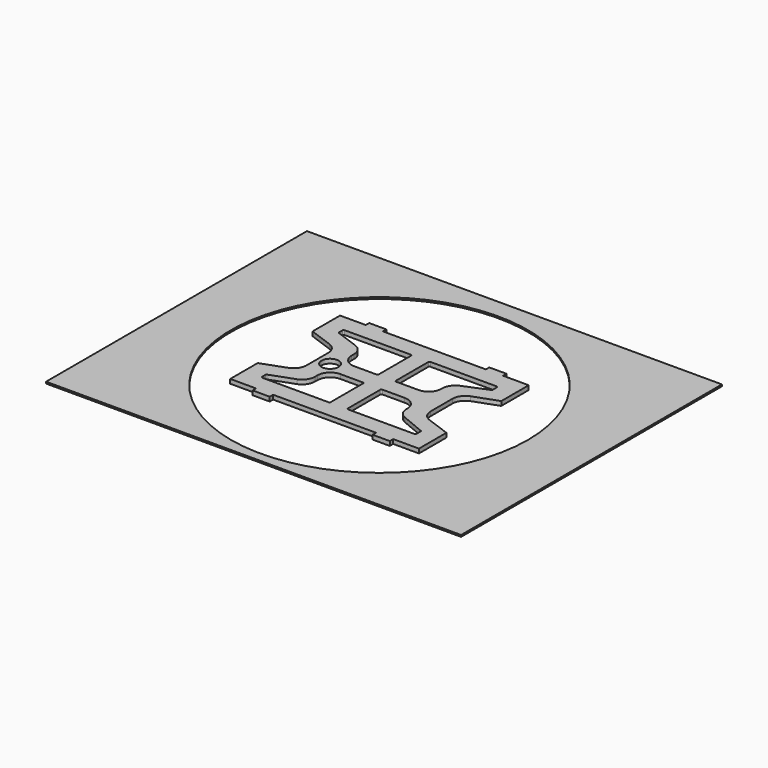
from build123d import *

# Parameters (mm, degrees)
F1_R     = 12.7
F1_W     = 25.4
F1_H     = 6.35
F2_DEPTH = 6.35
F0_W     = 614.423186
F0_H     = 482.76107
F0_R     = 220
F3_DEPTH = 2.54
F5_DEPTH = 25.4
F7_DEPTH = 25.4


with BuildPart() as f2:
    # F1 (on face) → F2 (new body)
    with BuildSketch(Plane.XY):
        Polygon((-97.758854, 101.6), (-135.858854, 101.6), (-135.858854, 51.370811), (-88.397744, 33.267927), (-88.347766, -33.487785), (-135.858854, -51.12635), (-135.858854, -101.6), (-97.758854, -101.6), (-72.358854, -101.6), (80.041146, -101.6), (105.441146, -101.6), (143.541146, -101.6), (143.541146, -51.020265), (95.782734, -33.633832), (95.831849, 33.409029), (143.541146, 50.852332), (143.541146, 101.6), (105.441146, 101.6), (80.041146, 101.6), (-72.358854, 101.6), align=None)
        with Locations((-69.322832, 0)):
            Circle(F1_R, mode=Mode.SUBTRACT)
        with Locations((-85.058854, 104.775)):
            Rectangle(F1_W, F1_H)
        Polygon((-88.397744, 33.267927), (-135.858854, 51.370811), (-135.858854, -51.12635), (-88.347766, -33.487785), align=None)
        with Locations((92.741146, 104.775)):
            Rectangle(F1_W, F1_H)
        with Locations((-85.058854, -104.775)):
            Rectangle(F1_W, F1_H)
        Polygon((143.541146, -51.020265), (143.541146, 50.852332), (95.831849, 33.409029), (95.782734, -33.633832), align=None)
        with Locations((92.741146, -104.775)):
            Rectangle(F1_W, F1_H)
    extrude(amount=F2_DEPTH)

    # F4 (on face) → F5 (cut)
    with BuildSketch(Plane.XY.offset(6.35)):
        with BuildLine():
            Line((143.541146, -50.8), (143.541146, 50.8))
            Line((143.541146, 50.8), (108.339277, 37.987568))
            ThreePointArc((108.339277, 37.987568), (99.249914, 31.013054), (95.804761, 20.086423))
            Line((95.804761, 20.086423), (95.804761, -20.086423))
            ThreePointArc((95.804761, -20.086423), (99.249914, -31.013054), (108.339277, -37.987568))
            Line((108.339277, -37.987568), (143.541146, -50.8))
        make_face()
        with BuildLine():
            Line((-100.656985, 37.987568), (-135.858854, 50.8))
            Line((-135.858854, 50.8), (-135.858854, -50.8))
            Line((-135.858854, -50.8), (-100.656985, -37.987568))
            ThreePointArc((-100.656985, -37.987568), (-91.567623, -31.013054), (-88.122469, -20.086423))
            Line((-88.122469, -20.086423), (-88.122469, 20.086423))
            ThreePointArc((-88.122469, 20.086423), (-91.567623, 31.013054), (-100.656985, 37.987568))
        make_face()
    extrude(amount=-F5_DEPTH, mode=Mode.SUBTRACT)

    # F6 (on face) → F7 (cut)
    with BuildSketch(Plane.XY.offset(6.35)):
        with BuildLine():
            Line((-75.256985, -54.142724), (-109.255424, -66.517143))
            ThreePointArc((-109.255424, -66.517143), (-110.128087, -67.186762), (-110.458854, -68.23582))
            Line((-110.458854, -68.23582), (-110.458854, -74.371022))
            ThreePointArc((-110.458854, -74.371022), (-109.923159, -75.664305), (-108.629877, -76.2))
            Line((-108.629877, -76.2), (-8.858854, -76.2))
            Line((-8.858854, -76.2), (-8.858854, -14.528978))
            ThreePointArc((-8.858854, -14.528978), (-9.39455, -13.235695), (-10.687832, -12.7))
            Line((-10.687832, -12.7), (-43.672469, -12.7))
            ThreePointArc((-43.672469, -12.7), (-57.142853, -18.279616), (-62.722469, -31.75))
            Line((-62.722469, -31.75), (-62.722469, -36.241579))
            ThreePointArc((-62.722469, -36.241579), (-66.167623, -47.16821), (-75.256985, -54.142724))
        make_face()
        with BuildLine():
            Line((-62.722469, 36.241579), (-62.722469, 31.75))
            ThreePointArc((-62.722469, 31.75), (-57.142853, 18.279616), (-43.672469, 12.7))
            Line((-43.672469, 12.7), (-10.687832, 12.7))
            ThreePointArc((-10.687832, 12.7), (-9.39455, 13.235695), (-8.858854, 14.528978))
            Line((-8.858854, 14.528978), (-8.858854, 74.371022))
            ThreePointArc((-8.858854, 74.371022), (-9.39455, 75.664305), (-10.687832, 76.2))
            Line((-10.687832, 76.2), (-108.629877, 76.2))
            ThreePointArc((-108.629877, 76.2), (-109.923159, 75.664305), (-110.458854, 74.371022))
            Line((-110.458854, 74.371022), (-110.458854, 68.23582))
            ThreePointArc((-110.458854, 68.23582), (-110.128087, 67.186762), (-109.255424, 66.517143))
            Line((-109.255424, 66.517143), (-75.256985, 54.142724))
            ThreePointArc((-75.256985, 54.142724), (-66.167623, 47.16821), (-62.722469, 36.241579))
        make_face()
        with BuildLine():
            Line((82.179021, 50.801741), (117.011651, 65.219236))
            ThreePointArc((117.011651, 65.219236), (117.832776, 65.892847), (118.141146, 66.909167))
            Line((118.141146, 66.909167), (118.141146, 74.371029))
            ThreePointArc((118.141146, 74.371029), (117.605453, 75.664307), (116.312175, 76.2))
            Line((116.312175, 76.2), (18.370123, 76.2))
            ThreePointArc((18.370123, 76.2), (17.076841, 75.664305), (16.541146, 74.371022))
            Line((16.541146, 74.371022), (16.541146, 14.528978))
            ThreePointArc((16.541146, 14.528978), (17.076841, 13.235695), (18.370123, 12.7))
            Line((18.370123, 12.7), (51.364546, 12.7))
            ThreePointArc((51.364546, 12.7), (64.83493, 18.279616), (70.414546, 31.75))
            Line((70.414546, 31.75), (70.414546, 33.199933))
            ThreePointArc((70.414546, 33.199933), (73.626431, 43.785613), (82.179021, 50.801741))
        make_face()
        with BuildLine():
            ThreePointArc((82.179021, -50.801741), (73.626431, -43.785613), (70.414546, -33.199933))
            Line((70.414546, -33.199933), (70.414546, -31.75))
            ThreePointArc((70.414546, -31.75), (64.83493, -18.279616), (51.364546, -12.7))
            Line((51.364546, -12.7), (18.370123, -12.7))
            ThreePointArc((18.370123, -12.7), (17.076841, -13.235695), (16.541146, -14.528978))
            Line((16.541146, -14.528978), (16.541146, -74.371022))
            ThreePointArc((16.541146, -74.371022), (17.076841, -75.664305), (18.370123, -76.2))
            Line((18.370123, -76.2), (116.312168, -76.2))
            ThreePointArc((116.312168, -76.2), (117.60545, -75.664305), (118.141146, -74.371022))
            Line((118.141146, -74.371022), (118.141146, -66.909167))
            ThreePointArc((118.141146, -66.909167), (117.832776, -65.892847), (117.011651, -65.219236))
            Line((117.011651, -65.219236), (82.179021, -50.801741))
        make_face()
    extrude(amount=-F7_DEPTH, mode=Mode.SUBTRACT)


with BuildPart() as f3:
    # F0 (on Top) → F3 (new body)
    with BuildSketch(Plane.XY):
        with Locations((4.857525, 7.080205)):
            Rectangle(F0_W, F0_H)
        with Locations((3.841146, 0)):
            Circle(F0_R, mode=Mode.SUBTRACT)
    extrude(amount=F3_DEPTH)


solid = Compound([f2.part, f3.part])
